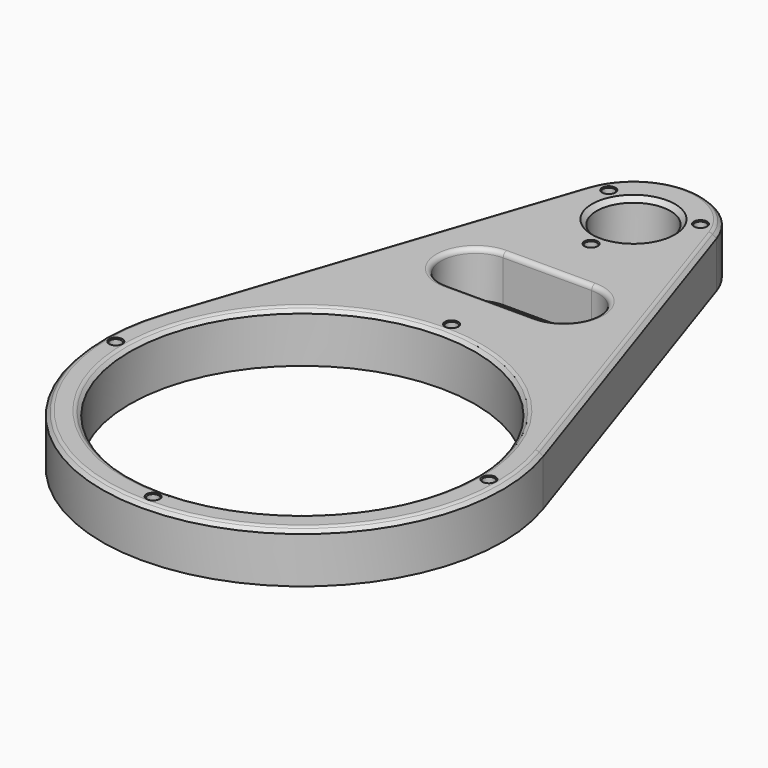
from build123d import *

# Parameters (mm, degrees)
SKETCH001_R     = 37.5
SKETCH001_R_2   = 8
SKETCH001_R_3   = 1.25
PAD_DEPTH       = 11
CHAMFER_SIZE    = 1
CHAMFER001_SIZE = 1
FILLET_R        = 1
CHAMFER002_SIZE = 0.2
CHAMFER003_SIZE = 1


with BuildPart() as part:
    # Sketch001 → Pad (new body)
    with BuildSketch(Plane.XY):
        with BuildLine():
            ThreePointArc((160.234719, 302.98721), (146.009323, 313.229259), (131.783927, 302.98721))
            Line((104.755674, 222.17773), (131.783927, 302.98721))
            ThreePointArc((104.755674, 222.17773), (146.009323, 164.87967), (187.262972, 222.17773))
            Line((160.234719, 302.98721), (187.262972, 222.17773))
        make_face()
        with Locations((146.009323, 208.37967)):
            Circle(SKETCH001_R, mode=Mode.SUBTRACT)
        with Locations((146.009323, 298.229259)):
            Circle(SKETCH001_R_2, mode=Mode.SUBTRACT)
        with Locations((155.968615, 303.979259)):
            Circle(SKETCH001_R_3, mode=Mode.SUBTRACT)
        with Locations((146.009323, 286.729259)):
            Circle(SKETCH001_R_3, mode=Mode.SUBTRACT)
        with Locations((136.050031, 303.979259)):
            Circle(SKETCH001_R_3, mode=Mode.SUBTRACT)
        with Locations((146.009323, 248.87967)):
            Circle(SKETCH001_R_3, mode=Mode.SUBTRACT)
        with Locations((186.509323, 208.37967)):
            Circle(SKETCH001_R_3, mode=Mode.SUBTRACT)
        with Locations((146.009323, 167.87967)):
            Circle(SKETCH001_R_3, mode=Mode.SUBTRACT)
        with Locations((105.509323, 208.37967)):
            Circle(SKETCH001_R_3, mode=Mode.SUBTRACT)
        with BuildLine():
            ThreePointArc((136.404664, 274.87967), (128.904664, 267.37967), (136.404664, 259.87967))
            Line((136.404664, 259.87967), (155.613982, 259.87967))
            ThreePointArc((155.613982, 259.87967), (163.113982, 267.37967), (155.613982, 274.87967))
            Line((136.404664, 274.87967), (155.613982, 274.87967))
        make_face(mode=Mode.SUBTRACT)
    extrude(amount=PAD_DEPTH)

    # Chamfer
    chamfer_edges = [part.edges().sort_by_distance(p)[0] for p in [
        (108.509323, 208.37967, 11),
        (146.009323, 274.87967, 0),
    ]]
    chamfer(chamfer_edges, length=CHAMFER_SIZE)

    # Chamfer001
    chamfer001_edges = [part.edges().sort_by_distance(p)[0] for p in [
        (173.748846, 262.58247, 11),
    ]]
    chamfer(chamfer001_edges, length=CHAMFER001_SIZE)

    # Fillet
    fillet_edges = [part.edges().sort_by_distance(p)[0] for p in [
        (146.009323, 274.87967, 11),
        (107.509323, 208.37967, 11),
        (119.21816, 262.265273, 11),
        (146.009323, 165.87967, 11),
    ]]
    fillet(fillet_edges, radius=FILLET_R)

    # Chamfer002
    chamfer002_edges = [part.edges().sort_by_distance(p)[0] for p in [
        (144.759323, 286.729259, 11),
        (134.800031, 303.979259, 11),
        (154.718615, 303.979259, 11),
        (185.259323, 208.37967, 11),
        (144.759323, 167.87967, 11),
        (104.259323, 208.37967, 11),
        (144.759323, 248.87967, 11),
    ]]
    chamfer(chamfer002_edges, length=CHAMFER002_SIZE)

    # Chamfer003
    chamfer003_edges = [part.edges().sort_by_distance(p)[0] for p in [
        (138.009323, 298.229259, 11),
    ]]
    chamfer(chamfer003_edges, length=CHAMFER003_SIZE)


solid = part.part
